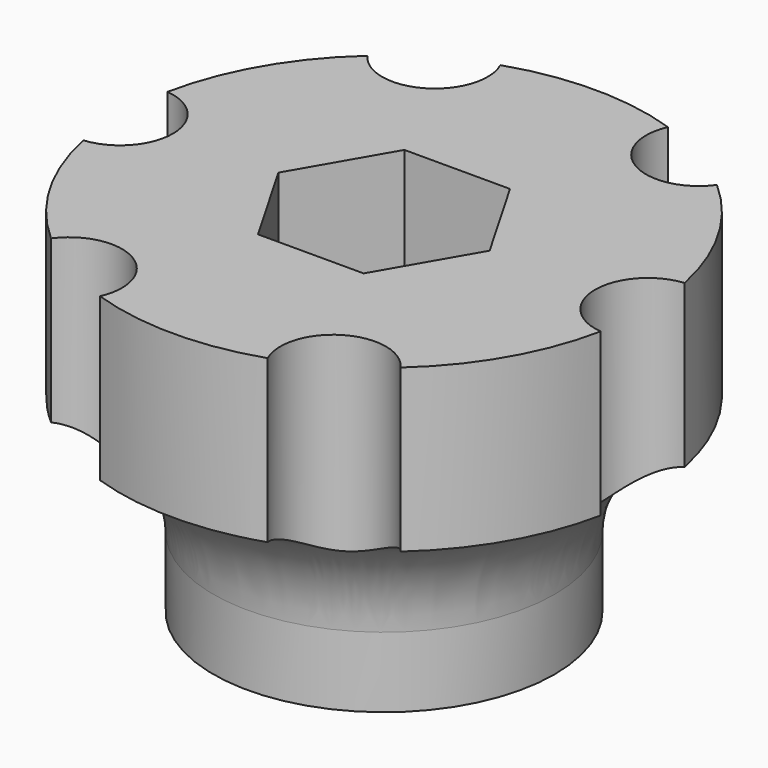
from build123d import *

# Parameters (mm, degrees)
F1_DEPTH = 10


with BuildPart() as f1:
    # F0 (on Top) → F1 (new body)
    with BuildSketch(Plane.XY):
        with BuildLine():
            ThreePointArc((-7.35, 1.492481), (-6, 0), (-7.35, -1.492481))
            ThreePointArc((-7.35, -1.492481), (-6.495191, -3.75), (-4.967527, -5.619046))
            ThreePointArc((-4.967527, -5.619046), (-3, -5.196152), (-2.382473, -7.111527))
            ThreePointArc((-2.382473, -7.111527), (0, -7.5), (2.382473, -7.111527))
            ThreePointArc((2.382473, -7.111527), (3, -5.196152), (4.967527, -5.619046))
            ThreePointArc((4.967527, -5.619046), (6.495191, -3.75), (7.35, -1.492481))
            ThreePointArc((7.35, -1.492481), (6, 0), (7.35, 1.492481))
            ThreePointArc((7.35, 1.492481), (6.495191, 3.75), (4.967527, 5.619046))
            ThreePointArc((4.967527, 5.619046), (3, 5.196152), (2.382473, 7.111527))
            ThreePointArc((2.382473, 7.111527), (0, 7.5), (-2.382473, 7.111527))
            ThreePointArc((-2.382473, 7.111527), (-3, 5.196152), (-4.967527, 5.619046))
            ThreePointArc((-4.967527, 5.619046), (-6.495191, 3.75), (-7.35, 1.492481))
        make_face()
        Polygon((-3.002221, 0), (-1.501111, 2.6), (1.501111, 2.6), (3.002221, 0), (1.501111, -2.6), (-1.501111, -2.6), align=None, mode=Mode.SUBTRACT)
    extrude(amount=F1_DEPTH)

    # F2 (on Front) → F3 (revolve, cut)
    with BuildSketch(Plane.XZ):
        with BuildLine():
            Line((4.85, 2), (4.85, 0))
            Line((4.85, 0), (9.85, 0))
            Line((9.85, 0), (9.924296, 5.125954))
            ThreePointArc((9.924296, 5.125954), (6.514249, 4.979936), (4.85, 2))
        make_face()
    revolve(axis=Axis((0, 0, 4.999244), (0, 0, -1)), mode=Mode.SUBTRACT)


solid = f1.part
